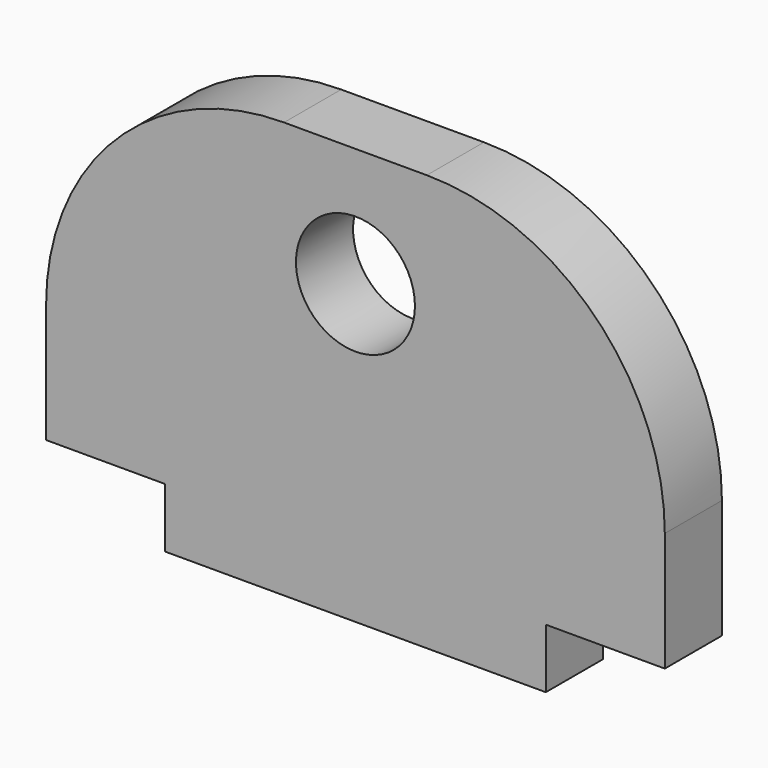
from build123d import *

# Parameters (mm, degrees)
F0_R     = 10
F1_DEPTH = 12


with BuildPart() as f1:
    # F0 (on Front) → F1 (new body)
    with BuildSketch(Plane.XZ):
        with BuildLine():
            Line((0, 20), (0, 0))
            Line((0, 0), (20, 0))
            Line((20, 0), (20, -10))
            Line((20, -10), (84, -10))
            Line((84, -10), (84, 0))
            Line((84, 0), (104, 0))
            Line((104, 0), (104, 20))
            ThreePointArc((104, 20), (92.284271, 48.284271), (64, 60))
            Line((64, 60), (40, 60))
            ThreePointArc((40, 60), (11.715729, 48.284271), (0, 20))
        make_face()
        with Locations((52, 40)):
            Circle(F0_R, mode=Mode.SUBTRACT)
    extrude(amount=F1_DEPTH)


solid = f1.part
